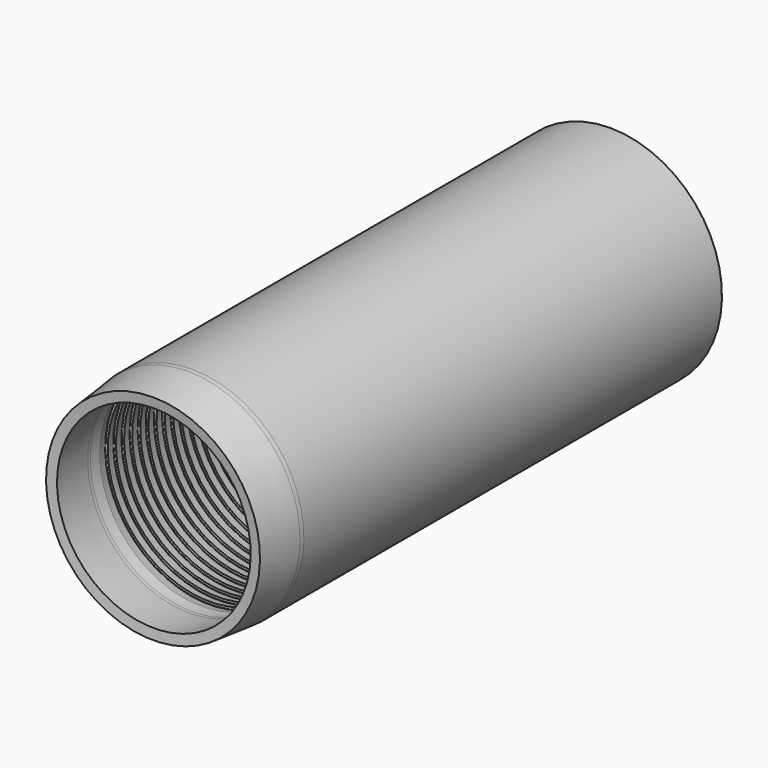
from build123d import *

# Parameters (mm, degrees)
F2_SIZE2 = 3
F2_SIZE  = 18
F3_R     = 1


with BuildPart() as f1:
    # F0 (on Right) → F1 (revolve)
    with BuildSketch(Plane.YZ):
        with BuildLine():
            Line((-0.6271707796, 63.1171313722), (0, 57.15))
            Line((0, 57.15), (26.0735250148, 59.8904379074))
            ThreePointArc((26.0735250148, 59.8904379074), (27.1173751553, 59.9725906951), (28.1640942802, 60))
            Line((28.1640942802, 60), (337.1159386945, 60))
            Line((337.1159386945, 60), (337.1159386945, 66))
            Line((337.1159386945, 66), (28.1640942802, 66))
            ThreePointArc((28.1640942802, 66), (26.8033594179, 65.9643679036), (25.4463542352, 65.8575692796))
            Line((25.4463542352, 65.8575692796), (-0.6271707796, 63.1171313722))
        make_face()
    revolve(axis=Axis((0, 91.946948302, 0), (0, -1, 0)))

    # F2
    f2_edges = [f1.edges().sort_by_distance(p)[0] for p in [
        (0, 337.115939, -60),
    ]]
    chamfer(f2_edges, length=F2_SIZE, length2=F2_SIZE2)

    # F3
    f3_edges = [f1.edges().sort_by_distance(p)[0] for p in [
        (0, 337.115939, -63),
        (0, 337.115939, -66),
    ]]
    fillet(f3_edges, radius=F3_R)

    # F4 (on Right) → F5 (revolve, cut)
    with BuildSketch(Plane.YZ):
        with BuildLine():
            Line((40.751492875, 61.4378732187), (35, 60))
            Line((35, 60), (41, 60))
            Line((41, 60), (41, 61.2438447187))
            ThreePointArc((41, 61.2438447187), (40.9230824419, 61.4014858063), (40.751492875, 61.4378732187))
        make_face()
        with BuildLine():
            Line((196.751492875, 61.4378732187), (191, 60))
            Line((191, 60), (197, 60))
            Line((197, 60), (197, 61.2438447187))
            ThreePointArc((197, 61.2438447187), (196.9230824419, 61.4014858063), (196.751492875, 61.4378732187))
        make_face()
        with BuildLine():
            Line((190.751492875, 61.4378732187), (185, 60))
            Line((185, 60), (191, 60))
            Line((191, 60), (191, 61.2438447187))
            ThreePointArc((191, 61.2438447187), (190.9230824419, 61.4014858063), (190.751492875, 61.4378732187))
        make_face()
        with BuildLine():
            Line((184.751492875, 61.4378732187), (179, 60))
            Line((179, 60), (185, 60))
            Line((185, 60), (185, 61.2438447187))
            ThreePointArc((185, 61.2438447187), (184.9230824419, 61.4014858063), (184.751492875, 61.4378732187))
        make_face()
        with BuildLine():
            Line((178.751492875, 61.4378732187), (173, 60))
            Line((173, 60), (179, 60))
            Line((179, 60), (179, 61.2438447187))
            ThreePointArc((179, 61.2438447187), (178.9230824419, 61.4014858063), (178.751492875, 61.4378732187))
        make_face()
        with BuildLine():
            Line((172.751492875, 61.4378732187), (167, 60))
            Line((167, 60), (173, 60))
            Line((173, 60), (173, 61.2438447187))
            ThreePointArc((173, 61.2438447187), (172.9230824419, 61.4014858063), (172.751492875, 61.4378732187))
        make_face()
        with BuildLine():
            Line((166.751492875, 61.4378732187), (161, 60))
            Line((161, 60), (167, 60))
            Line((167, 60), (167, 61.2438447187))
            ThreePointArc((167, 61.2438447187), (166.9230824419, 61.4014858063), (166.751492875, 61.4378732187))
        make_face()
        with BuildLine():
            Line((160.751492875, 61.4378732187), (155, 60))
            Line((155, 60), (161, 60))
            Line((161, 60), (161, 61.2438447187))
            ThreePointArc((161, 61.2438447187), (160.9230824419, 61.4014858063), (160.751492875, 61.4378732187))
        make_face()
        with BuildLine():
            Line((154.751492875, 61.4378732187), (149, 60))
            Line((149, 60), (155, 60))
            Line((155, 60), (155, 61.2438447187))
            ThreePointArc((155, 61.2438447187), (154.9230824419, 61.4014858063), (154.751492875, 61.4378732187))
        make_face()
        with BuildLine():
            Line((148.751492875, 61.4378732187), (143, 60))
            Line((143, 60), (149, 60))
            Line((149, 60), (149, 61.2438447187))
            ThreePointArc((149, 61.2438447187), (148.9230824419, 61.4014858063), (148.751492875, 61.4378732187))
        make_face()
        with BuildLine():
            Line((142.751492875, 61.4378732187), (137, 60))
            Line((137, 60), (143, 60))
            Line((143, 60), (143, 61.2438447187))
            ThreePointArc((143, 61.2438447187), (142.9230824419, 61.4014858063), (142.751492875, 61.4378732187))
        make_face()
        with BuildLine():
            Line((136.751492875, 61.4378732187), (131, 60))
            Line((131, 60), (137, 60))
            Line((137, 60), (137, 61.2438447187))
            ThreePointArc((137, 61.2438447187), (136.9230824419, 61.4014858063), (136.751492875, 61.4378732187))
        make_face()
        with BuildLine():
            Line((130.751492875, 61.4378732187), (125, 60))
            Line((125, 60), (131, 60))
            Line((131, 60), (131, 61.2438447187))
            ThreePointArc((131, 61.2438447187), (130.9230824419, 61.4014858063), (130.751492875, 61.4378732187))
        make_face()
        with BuildLine():
            Line((124.751492875, 61.4378732187), (119, 60))
            Line((119, 60), (125, 60))
            Line((125, 60), (125, 61.2438447187))
            ThreePointArc((125, 61.2438447187), (124.9230824419, 61.4014858063), (124.751492875, 61.4378732187))
        make_face()
        with BuildLine():
            Line((118.751492875, 61.4378732187), (113, 60))
            Line((113, 60), (119, 60))
            Line((119, 60), (119, 61.2438447187))
            ThreePointArc((119, 61.2438447187), (118.9230824419, 61.4014858063), (118.751492875, 61.4378732187))
        make_face()
        with BuildLine():
            Line((112.751492875, 61.4378732187), (107, 60))
            Line((107, 60), (113, 60))
            Line((113, 60), (113, 61.2438447187))
            ThreePointArc((113, 61.2438447187), (112.9230824419, 61.4014858063), (112.751492875, 61.4378732187))
        make_face()
        with BuildLine():
            Line((106.751492875, 61.4378732187), (101, 60))
            Line((101, 60), (107, 60))
            Line((107, 60), (107, 61.2438447187))
            ThreePointArc((107, 61.2438447187), (106.9230824419, 61.4014858063), (106.751492875, 61.4378732187))
        make_face()
        with BuildLine():
            Line((100.751492875, 61.4378732187), (95, 60))
            Line((95, 60), (101, 60))
            Line((101, 60), (101, 61.2438447187))
            ThreePointArc((101, 61.2438447187), (100.9230824419, 61.4014858063), (100.751492875, 61.4378732187))
        make_face()
        with BuildLine():
            Line((94.751492875, 61.4378732187), (89, 60))
            Line((89, 60), (95, 60))
            Line((95, 60), (95, 61.2438447187))
            ThreePointArc((95, 61.2438447187), (94.9230824419, 61.4014858063), (94.751492875, 61.4378732187))
        make_face()
        with BuildLine():
            Line((88.751492875, 61.4378732187), (83, 60))
            Line((83, 60), (89, 60))
            Line((89, 60), (89, 61.2438447187))
            ThreePointArc((89, 61.2438447187), (88.9230824419, 61.4014858063), (88.751492875, 61.4378732187))
        make_face()
        with BuildLine():
            Line((82.751492875, 61.4378732187), (77, 60))
            Line((77, 60), (83, 60))
            Line((83, 60), (83, 61.2438447187))
            ThreePointArc((83, 61.2438447187), (82.9230824419, 61.4014858063), (82.751492875, 61.4378732187))
        make_face()
        with BuildLine():
            Line((76.751492875, 61.4378732187), (71, 60))
            Line((71, 60), (77, 60))
            Line((77, 60), (77, 61.2438447187))
            ThreePointArc((77, 61.2438447187), (76.9230824419, 61.4014858063), (76.751492875, 61.4378732187))
        make_face()
        with BuildLine():
            Line((70.751492875, 61.4378732187), (65, 60))
            Line((65, 60), (71, 60))
            Line((71, 60), (71, 61.2438447187))
            ThreePointArc((71, 61.2438447187), (70.9230824419, 61.4014858063), (70.751492875, 61.4378732187))
        make_face()
        with BuildLine():
            Line((64.751492875, 61.4378732187), (59, 60))
            Line((59, 60), (65, 60))
            Line((65, 60), (65, 61.2438447187))
            ThreePointArc((65, 61.2438447187), (64.9230824419, 61.4014858063), (64.751492875, 61.4378732187))
        make_face()
        with BuildLine():
            Line((58.751492875, 61.4378732187), (53, 60))
            Line((53, 60), (59, 60))
            Line((59, 60), (59, 61.2438447187))
            ThreePointArc((59, 61.2438447187), (58.9230824419, 61.4014858063), (58.751492875, 61.4378732187))
        make_face()
        with BuildLine():
            Line((52.751492875, 61.4378732187), (47, 60))
            Line((47, 60), (53, 60))
            Line((53, 60), (53, 61.2438447187))
            ThreePointArc((53, 61.2438447187), (52.9230824419, 61.4014858063), (52.751492875, 61.4378732187))
        make_face()
        with BuildLine():
            Line((46.751492875, 61.4378732187), (41, 60))
            Line((41, 60), (47, 60))
            Line((47, 60), (47, 61.2438447187))
            ThreePointArc((47, 61.2438447187), (46.9230824419, 61.4014858063), (46.751492875, 61.4378732187))
        make_face()
    revolve(axis=Axis((0, 52.6040179618, 0), (0, -1, 0)), mode=Mode.SUBTRACT)


solid = f1.part
